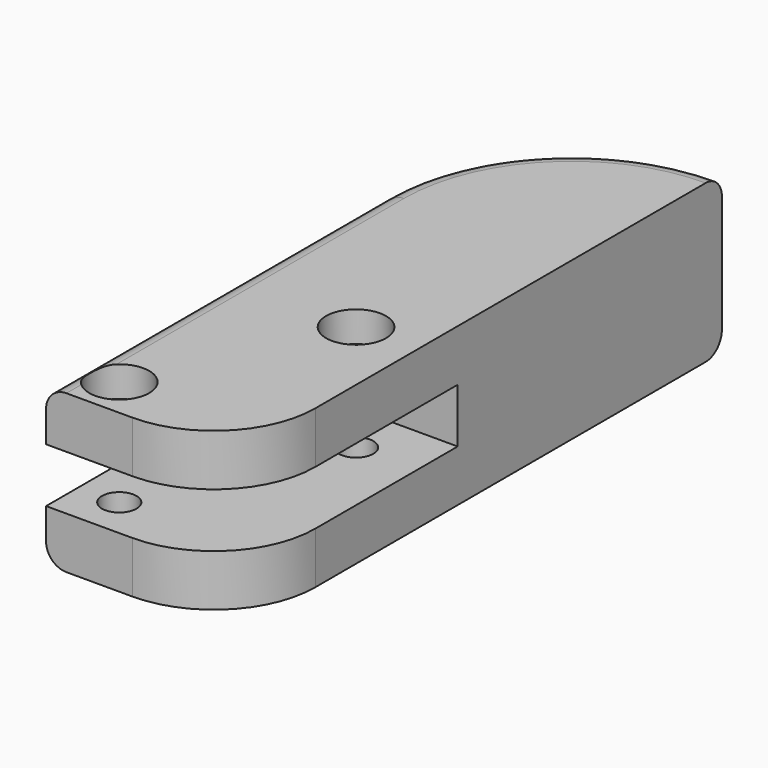
from build123d import *

# Parameters (mm, degrees)
PAD_DEPTH       = 15.5
SKETCH001_W     = 27.5
SKETCH001_H     = 5.35
POCKET_DEPTH    = 18.501
SKETCH002_R     = 1.7
POCKET001_DEPTH = 15.501
FILLET_R        = 10
FILLET001_R     = 2
SKETCH003_R     = 2.95
POCKET002_DEPTH = 3
POCKET003_DEPTH = 3


with BuildPart() as part:
    # Sketch → Pad (new body)
    with BuildSketch(Plane.XY):
        with BuildLine():
            Line((18.5, 60), (18.5, 0))
            Line((18.5, 0), (0, 0))
            Line((0, 0), (0, 41.5))
            ThreePointArc((18.5, 60), (5.418525, 54.581475), (0, 41.5))
        make_face()
    extrude(amount=PAD_DEPTH)

    # Sketch001 (on Face1 of Pad) → Pocket (cut, through all)
    with BuildSketch(Plane.YZ.offset(18.5)):
        with Locations((13.75, 7.75)):
            Rectangle(SKETCH001_W, SKETCH001_H)
    extrude(amount=-POCKET_DEPTH, mode=Mode.SUBTRACT)

    # Sketch002 (on Face8 of Pocket) → Pocket001 (cut, through all)
    with BuildSketch(Plane.XY.offset(15.5)):
        with Locations((4, 4)):
            Circle(SKETCH002_R)
        with Locations((12.5, 22.5)):
            Circle(SKETCH002_R)
    extrude(amount=-POCKET001_DEPTH, mode=Mode.SUBTRACT)

    # Fillet
    fillet_edges = [part.edges().sort_by_distance(p)[0] for p in [
        (18.5, 0, 12.9625),
        (18.5, 0, 2.5375),
    ]]
    fillet(fillet_edges, radius=FILLET_R)

    # Fillet001
    fillet001_edges = [part.edges().sort_by_distance(p)[0] for p in [
        (0, 20.75, 15.5),
        (0, 20.75, 0),
    ]]
    fillet(fillet001_edges, radius=FILLET001_R)

    # Sketch003 (on Face9 of Fillet001) → Pocket002 (cut)
    with BuildSketch(Plane.XY.offset(15.5)):
        with Locations((12.5, 22.5)):
            Circle(SKETCH003_R)
        with Locations((4, 4)):
            Circle(SKETCH003_R)
    extrude(amount=-POCKET002_DEPTH, mode=Mode.SUBTRACT)

    # Sketch004 (on Face2 of Pocket002) → Pocket003 (cut)
    with BuildSketch(Plane(origin=(0, 0, 0), x_dir=(1, 0, 0), z_dir=(0, 0, -1))):
        Polygon((12.5, -25.85), (15.401185, -24.175), (15.401185, -20.825), (12.5, -19.15), (9.598815, -20.825), (9.598815, -24.175), align=None)
        Polygon((4, -7.35), (6.901185, -5.675), (6.901185, -2.325), (4, -0.65), (1.098815, -2.325), (1.098815, -5.675), align=None)
    extrude(amount=-POCKET003_DEPTH, mode=Mode.SUBTRACT)


solid = part.part
